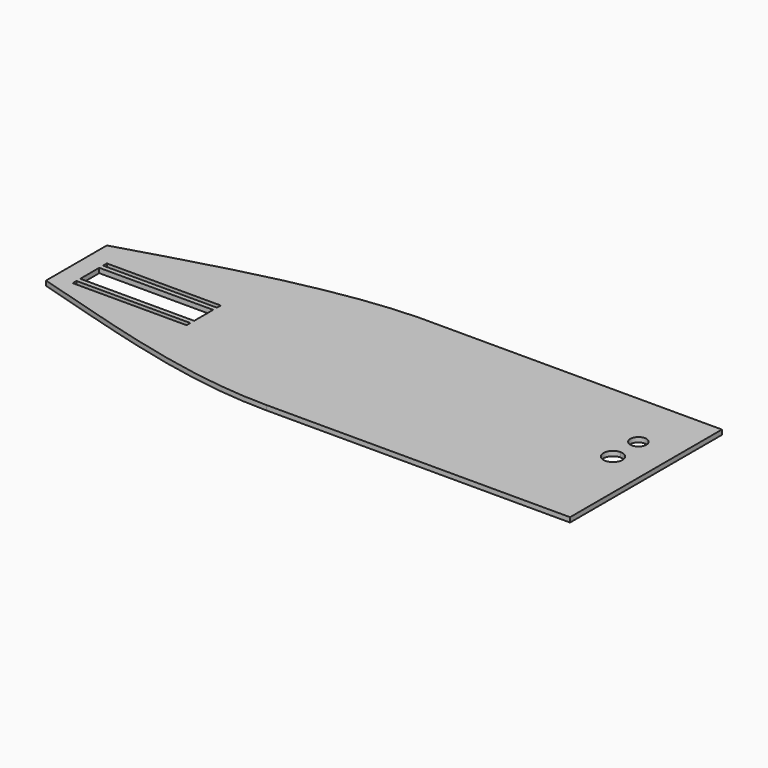
from build123d import *

# Parameters (mm, degrees)
F0_W      = 406.4
F0_H      = 254
F0_R      = 10.795
F1_DEPTH  = 6.35
F2_W      = 101.6
F2_H      = 6.35
F3_DEPTH  = 355.6
F5_DEPTH  = 6.35
F7_DEPTH  = 6.35
F8_W      = 152.4
F8_H      = 31.75
F9_DEPTH  = 6.35
F11_DEPTH = 6.35
F12_W     = 152.4
F12_H     = 6.35
F13_DEPTH = 6.35
F15_DEPTH = 6.35


with BuildPart() as f1:
    # F0 (on Top) → F1 (new body)
    with BuildSketch(Plane.XY):
        with Locations((203.2, 127)):
            Rectangle(F0_W, F0_H)
        with Locations((355.6, 177.8)):
            Circle(F0_R, mode=Mode.SUBTRACT)
    extrude(amount=F1_DEPTH)

    # F2 (on face) → F3 (join)
    with BuildSketch(Plane(origin=(0, 0, 0), x_dir=(0, -1, 0), z_dir=(-1, 0, 0))):
        with Locations((-127, 3.175)):
            Rectangle(F2_W, F2_H)
    extrude(amount=F3_DEPTH)

    # F4 (on face) → F5 (join)
    with BuildSketch(Plane.XY.offset(6.35)):
        with BuildLine():
            Line((0, 177.8), (0, 254))
            add(Edge.make_bspline(
                [(0, 254), (-112.8963902593, 250.5958378315), (-238.5879904032, 212.7161622047), (-355.6, 177.8)],
                knots=[0, 0, 0, 0, 363.6726550072, 363.6726550072, 363.6726550072, 363.6726550072], degree=3))
            Line((-355.6, 177.8), (0, 177.8))
        make_face()
    extrude(amount=-F5_DEPTH)

    # F6 (on face) → F7 (join)
    with BuildSketch(Plane.XY.offset(6.35)):
        with BuildLine():
            add(Edge.make_bspline(
                [(0, 0), (-114.120438695, 0), (-236.8435710669, 41.2505157292), (-355.6, 76.2)],
                knots=[0, 0, 0, 0, 363.6726550072, 363.6726550072, 363.6726550072, 363.6726550072], degree=3))
            Line((0, 0), (0, 76.2))
            Line((0, 76.2), (-355.6, 76.2))
        make_face()
    extrude(amount=-F7_DEPTH)

    # F8 (on face) → F9 (cut)
    with BuildSketch(Plane.XY.offset(6.35)):
        with Locations((-254, 117.475)):
            Rectangle(F8_W, F8_H)
    extrude(amount=-F9_DEPTH, mode=Mode.SUBTRACT)

    # F10 (on face) → F11 (cut)
    with BuildSketch(Plane.XY.offset(6.35)):
        Polygon((-330.2, 146.05), (-330.2, 139.7), (-269.6087956429, 139.7), (-177.8, 139.7), (-177.8, 146.05), align=None)
    extrude(amount=-F11_DEPTH, mode=Mode.SUBTRACT)

    # F12 (on face) → F13 (cut)
    with BuildSketch(Plane.XY.offset(6.35)):
        with Locations((-254, 92.075)):
            Rectangle(F12_W, F12_H)
    extrude(amount=-F13_DEPTH, mode=Mode.SUBTRACT)

    # F14 (on face) → F15 (cut)
    with BuildSketch(Plane.XY.offset(6.35)):
        with BuildLine():
            ThreePointArc((368.3, 135.255), (364.5802561211, 144.2352561211), (355.6, 147.955))
            ThreePointArc((355.6, 147.955), (346.6197438789, 126.2747438789), (368.3, 135.255))
        make_face()
    extrude(amount=-F15_DEPTH, mode=Mode.SUBTRACT)


solid = f1.part
